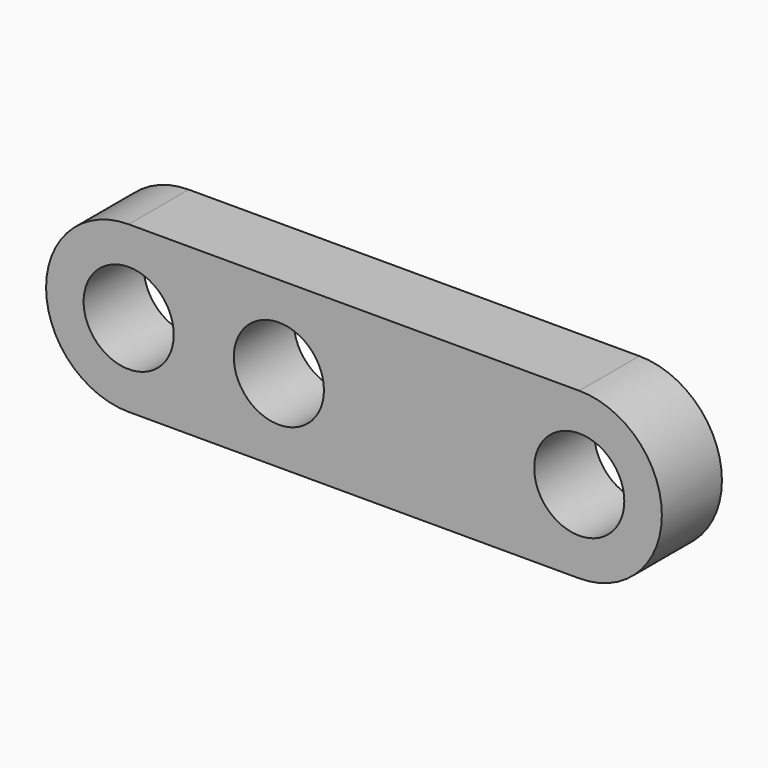
from build123d import *

# Parameters (mm, degrees)
F0_R     = 3
F1_DEPTH = 5


with BuildPart() as f1:
    # F0 (on Front) → F1 (new body)
    with BuildSketch(Plane.XZ):
        with BuildLine():
            Line((30, 5.5), (0, 5.5))
            ThreePointArc((0, 5.5), (-5.5, 0), (0, -5.5))
            Line((0, -5.5), (30, -5.5))
            ThreePointArc((30, -5.5), (35.5, 0), (30, 5.5))
        make_face()
        Circle(F0_R, mode=Mode.SUBTRACT)
        with Locations((10, 0)):
            Circle(F0_R, mode=Mode.SUBTRACT)
        with Locations((30, 0)):
            Circle(F0_R, mode=Mode.SUBTRACT)
    extrude(amount=F1_DEPTH)


solid = f1.part
